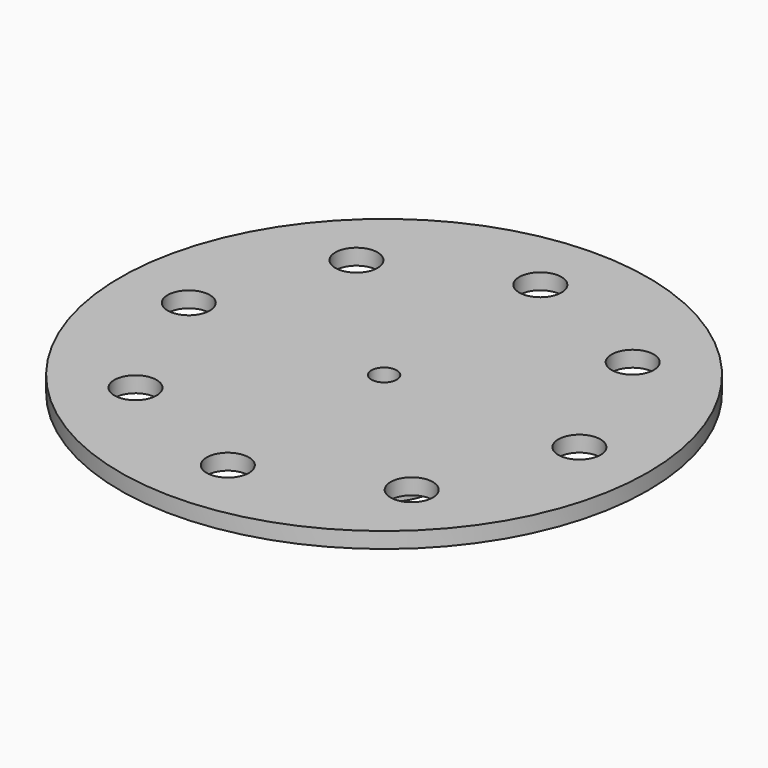
from build123d import *

# Parameters (mm, degrees)
SKETCH002_R                 = 3
EXTRUDE002_DEPTH            = 6
CYLINDER049_R               = 1.2
CYLINDER049_DEPTH           = 19
CYLINDER014_R               = 2
CYLINDER014_DEPTH           = 5
CYLINDER014_PLACEMENT_ANGLE = 45
CYLINDER015_R               = 2
CYLINDER015_DEPTH           = 5
CYLINDER016_R               = 2
CYLINDER016_DEPTH           = 5
CYLINDER016_PLACEMENT_ANGLE = 135
CYLINDER017_R               = 2
CYLINDER017_DEPTH           = 5
CYLINDER018_R               = 2
CYLINDER018_DEPTH           = 5
CYLINDER018_PLACEMENT_ANGLE = 225
CYLINDER019_R               = 2
CYLINDER019_DEPTH           = 5
CYLINDER020_R               = 2
CYLINDER020_DEPTH           = 5
CYLINDER020_PLACEMENT_ANGLE = 45
CYLINDER013_R               = 2
CYLINDER013_DEPTH           = 5
CYLINDER021_R               = 5
CYLINDER021_DEPTH           = 8
CYLINDER012_R               = 25
CYLINDER012_DEPTH           = 1.5
CUT050_PLACEMENT_ANGLE      = 180


with BuildPart() as extrude002:
    # Sketch002 (on Face25 of Shape005) → Extrude002 (new body)
    with BuildSketch(Plane(origin=(85.664098, -4.553146, 1.091283), x_dir=(-1, 0, 0), z_dir=(0, 0, 1))):
        with Locations((9.450198, -0.000218)):
            Circle(SKETCH002_R)
    extrude(amount=EXTRUDE002_DEPTH)


with BuildPart() as extrude002_1:
    # Extrude002 placement: moved
    add(extrude002.part.moved(Location((-76.21, 4.55, 3))))


with BuildPart() as cylinder049:
    # Cylinder049 → Cylinder049 (new body)
    with BuildSketch(Plane.XY.offset(-1)):
        Circle(CYLINDER049_R)
    extrude(amount=CYLINDER049_DEPTH)


with BuildPart() as cylinder014:
    # cylinder014 → cylinder014 (new body)
    with BuildSketch(Plane.XY):
        Circle(CYLINDER014_R)
    extrude(amount=CYLINDER014_DEPTH)


with BuildPart() as cylinder014_1:
    # cylinder014 placement: moved
    add(cylinder014.part.moved(Location((13.081475, 13.081475, 0))).rotate(Axis((13.081475, 13.081475, 0), (0, 0, 1)), CYLINDER014_PLACEMENT_ANGLE))


with BuildPart() as cylinder015:
    # cylinder015 → cylinder015 (new body)
    with BuildSketch(Plane(origin=(0, 18.5, 0), x_dir=(0, 1, 0), z_dir=(0, 0, 1))):
        Circle(CYLINDER015_R)
    extrude(amount=CYLINDER015_DEPTH)


with BuildPart() as cylinder016:
    # cylinder016 → cylinder016 (new body)
    with BuildSketch(Plane.XY):
        Circle(CYLINDER016_R)
    extrude(amount=CYLINDER016_DEPTH)


with BuildPart() as cylinder016_1:
    # cylinder016 placement: moved
    add(cylinder016.part.moved(Location((-13.081475, 13.081475, 0))).rotate(Axis((-13.081475, 13.081475, 0), (0, 0, 1)), CYLINDER016_PLACEMENT_ANGLE))


with BuildPart() as cylinder017:
    # cylinder017 → cylinder017 (new body)
    with BuildSketch(Plane(origin=(-18.5, 0, 0), x_dir=(-1, 0, 0), z_dir=(0, 0, 1))):
        Circle(CYLINDER017_R)
    extrude(amount=CYLINDER017_DEPTH)


with BuildPart() as cylinder018:
    # cylinder018 → cylinder018 (new body)
    with BuildSketch(Plane.XY):
        Circle(CYLINDER018_R)
    extrude(amount=CYLINDER018_DEPTH)


with BuildPart() as cylinder018_1:
    # cylinder018 placement: moved
    add(cylinder018.part.moved(Location((-13.081475, -13.081475, 0))).rotate(Axis((-13.081475, -13.081475, 0), (0, 0, 1)), CYLINDER018_PLACEMENT_ANGLE))


with BuildPart() as cylinder019:
    # cylinder019 → cylinder019 (new body)
    with BuildSketch(Plane(origin=(0, -18.5, 0), x_dir=(0, -1, 0), z_dir=(0, 0, 1))):
        Circle(CYLINDER019_R)
    extrude(amount=CYLINDER019_DEPTH)


with BuildPart() as cylinder020:
    # cylinder020 → cylinder020 (new body)
    with BuildSketch(Plane.XY):
        Circle(CYLINDER020_R)
    extrude(amount=CYLINDER020_DEPTH)


with BuildPart() as cylinder020_1:
    # cylinder020 placement: moved
    add(cylinder020.part.moved(Location((13.081475, -13.081475, 0))).rotate(Axis((13.081475, -13.081475, 0), (0, 0, -1)), CYLINDER020_PLACEMENT_ANGLE))


with BuildPart() as fusion026:
    # cylinder013 → cylinder013 (new body)
    with BuildSketch(Plane(origin=(18.5, 0, 0), x_dir=(1, 0, 0), z_dir=(0, 0, 1))):
        Circle(CYLINDER013_R)
    extrude(amount=CYLINDER013_DEPTH)

    # Group001: union cylinder014, cylinder015, cylinder016, cylinder017, cylinder018, cylinder019, cylinder020
    add(cylinder014_1.part)
    add(cylinder015.part)
    add(cylinder016_1.part)
    add(cylinder017.part)
    add(cylinder018_1.part)
    add(cylinder019.part)
    add(cylinder020_1.part)


with BuildPart() as fusion026_1:
    # Group001 placement: moved
    add(fusion026.part.moved(Location((0, 0, -1))))

    # Fusion026: union Extrude002, Cylinder049
    add(extrude002_1.part)
    add(cylinder049.part)


with BuildPart() as servo_central_shaft002:
    # cylinder021 → cylinder021 (new body)
    with BuildSketch(Plane.XY):
        Circle(CYLINDER021_R)
    extrude(amount=CYLINDER021_DEPTH)


with BuildPart() as rotor001:
    # cylinder012 → cylinder012 (new body)
    with BuildSketch(Plane.XY):
        Circle(CYLINDER012_R)
    extrude(amount=CYLINDER012_DEPTH)

    # Fusion027: union servo_central_shaft002
    add(servo_central_shaft002.part)

    # Cut050: cut Fusion026
    add(fusion026_1.part, mode=Mode.SUBTRACT)


with BuildPart() as rotor001_1:
    # Cut050 placement: moved
    add(rotor001.part.rotate(Axis((0, 0, 0), (1, 0, 0)), CUT050_PLACEMENT_ANGLE))


solid = rotor001_1.part
